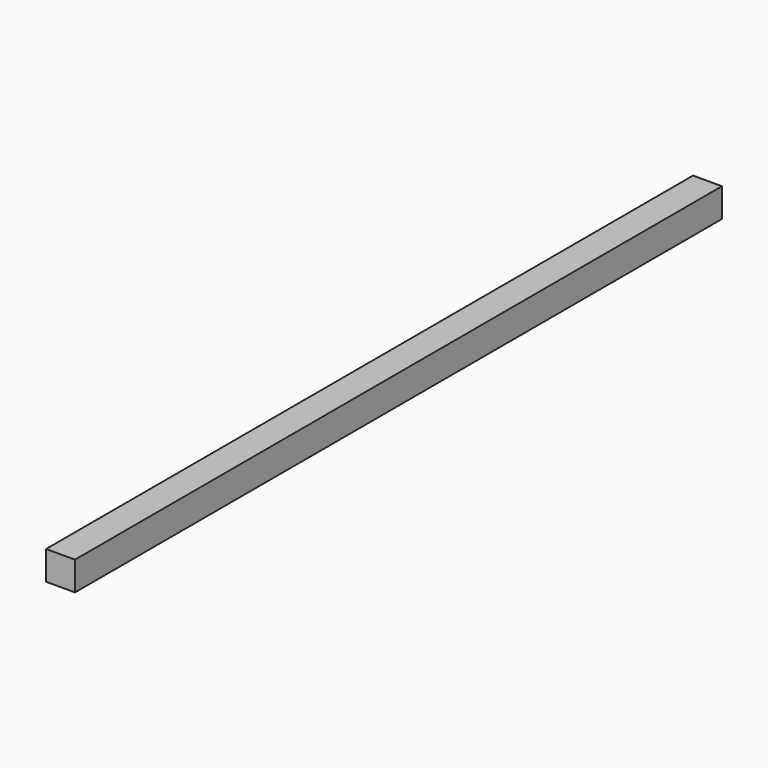
from build123d import *

# Parameters (mm, degrees)
F0_W     = 63.5
F0_H     = 63.5
F1_DEPTH = 1498.6
F2_DEPTH = 1092.2
F3_DEPTH = 203.2
F4_DEPTH = 177.8
F5_DEPTH = 1117.6
F6_DEPTH = 635


with BuildPart() as f1:
    # F0 (on Front) → F1 (new body)
    with BuildSketch(Plane.XZ):
        with Locations((-132.8186606169, 36.3734573238)):
            Rectangle(F0_W, F0_H)
    extrude(amount=F1_DEPTH)

    # F2 (cut): a face of the model
    f2_faces = [f1.faces().sort_by_distance(p)[0] for p in [
        (-132.8186606169, 0, 36.3734573238),
    ]]
    extrude(f2_faces, amount=-F2_DEPTH, mode=Mode.SUBTRACT)

    # F3 (cut): a face of the model
    f3_faces = [f1.faces().sort_by_distance(p)[0] for p in [
        (-132.8186606169, -1092.2, 36.3734573238),
    ]]
    extrude(f3_faces, amount=-F3_DEPTH, mode=Mode.SUBTRACT)

    # F4 (cut): a face of the model
    f4_faces = [f1.faces().sort_by_distance(p)[0] for p in [
        (-132.8186606169, -1498.6, 36.3734573238),
    ]]
    extrude(f4_faces, amount=-F4_DEPTH, mode=Mode.SUBTRACT)

    # F5 (add): a face of the model
    f5_faces = [f1.faces().sort_by_distance(p)[0] for p in [
        (-132.8186606169, -1295.4, 36.3734573238),
    ]]
    extrude(f5_faces, amount=F5_DEPTH)

    # F6 (add): a face of the model
    f6_faces = [f1.faces().sort_by_distance(p)[0] for p in [
        (-132.8186606169, -177.8, 36.3734573238),
    ]]
    extrude(f6_faces, amount=F6_DEPTH)


solid = f1.part
